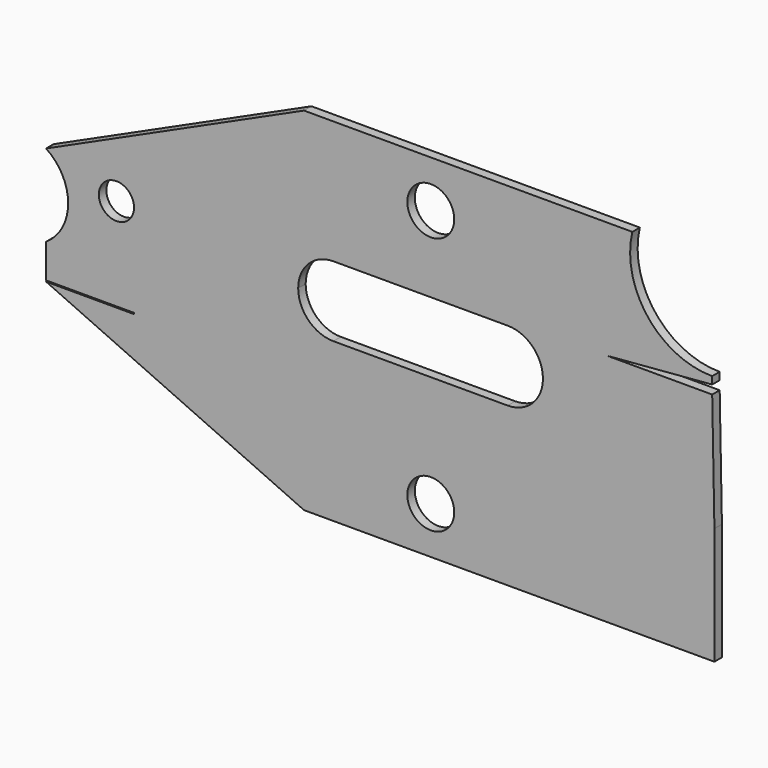
from build123d import *

# Parameters (mm, degrees)
F0_R     = 4
F0_R_2   = 3
F1_DEPTH = 1.6


with BuildPart() as f1:
    # F0 (on Front) → F1 (new body)
    with BuildSketch(Plane.XZ):
        with BuildLine():
            Line((0, -20), (0, 0))
            Line((0, 0), (-0.37906, 20))
            Line((-0.37906, 20), (-18.316451, 20))
            Line((-18.316451, 20), (-0.37906, 21.5))
            Line((-0.37906, 21.5), (-0.37906, 22.764263))
            ThreePointArc((-0.37906, 22.764263), (-11.363146, 28.083835), (-14, 40))
            Line((-14, 40), (-70, 40))
            Line((-70, 40), (-114, 20))
            ThreePointArc((-114, 20), (-110.23341, 13), (-114, 6))
            Line((-114, 6), (-114, 0.2))
            Line((-114, 0.2), (-99, 0.2))
            Line((-99, 0.2), (-99, 0))
            Line((-99, 0), (-114, 0))
            Line((-114, 0), (-70, -20))
            Line((-70, -20), (0, -20))
        make_face()
        with Locations((-48.37906, -12)):
            Circle(F0_R, mode=Mode.SUBTRACT)
        with Locations((-102, 16)):
            Circle(F0_R_2, mode=Mode.SUBTRACT)
        with BuildLine():
            Line((-65, 19), (-35.252675, 19))
            ThreePointArc((-35.252675, 19), (-31.010034, 17.242641), (-29.252675, 13))
            ThreePointArc((-29.252675, 13), (-31.010034, 8.757359), (-35.252675, 7))
            Line((-35.252675, 7), (-65, 7))
            ThreePointArc((-65, 7), (-69.242641, 8.757359), (-71, 13))
            ThreePointArc((-71, 13), (-69.242641, 17.242641), (-65, 19))
        make_face(mode=Mode.SUBTRACT)
        with Locations((-48.37906, 32)):
            Circle(F0_R, mode=Mode.SUBTRACT)
    extrude(amount=F1_DEPTH)


solid = f1.part
